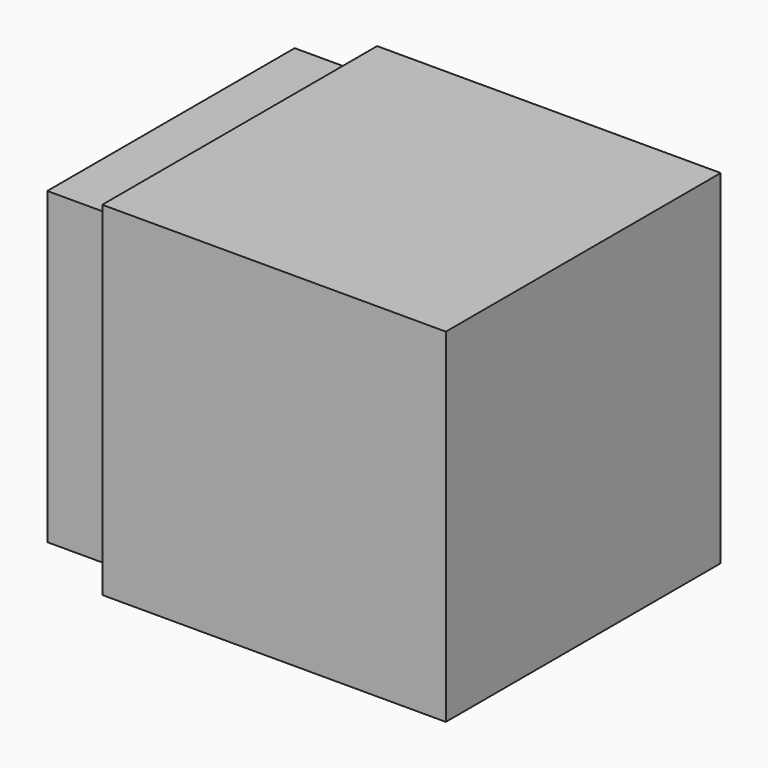
from build123d import *

# Parameters (mm, degrees)
F0_W     = 20
F0_H     = 20
F1_DEPTH = 20
F2_W     = 16
F2_H     = 16
F3_DEPTH = 16
F4_W     = 18
F4_H     = 18
F4_W_2   = 16
F4_H_2   = 16
F5_DEPTH = 4


with BuildPart() as f1:
    # F0 (on Right) → F1 (new body)
    with BuildSketch(Plane.YZ):
        Rectangle(F0_W, F0_H)
    extrude(amount=F1_DEPTH)

    # F2 (on face) → F3 (cut)
    with BuildSketch(Plane(origin=(0, 0, 0), x_dir=(0, -1, 0), z_dir=(-1, 0, 0))):
        Rectangle(F2_W, F2_H)
    extrude(amount=-F3_DEPTH, mode=Mode.SUBTRACT)

    # F4 (on face) → F5 (join)
    with BuildSketch(Plane(origin=(0, 0, 0), x_dir=(0, -1, 0), z_dir=(-1, 0, 0))):
        Rectangle(F4_W, F4_H)
        Rectangle(F4_W_2, F4_H_2, mode=Mode.SUBTRACT)
    extrude(amount=F5_DEPTH)


solid = f1.part
